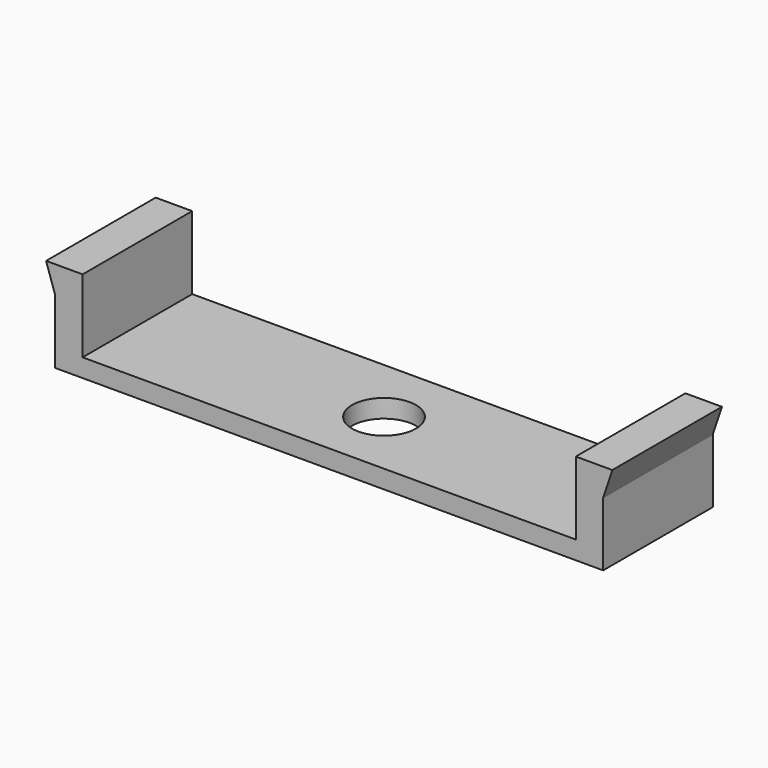
from build123d import *

# Parameters (mm, degrees)
F0_W     = 76.2
F0_H     = 19.05
F1_DEPTH = 2.54
F2_W     = 3.81
F2_H     = 19.05
F3_DEPTH = 10.16
F4_R     = 4.445
F5_DEPTH = 25.4
F7_DEPTH = 19.05


with BuildPart() as f1:
    # F0 (on Top) → F1 (new body)
    with BuildSketch(Plane.XY):
        with Locations((38.1, 9.525)):
            Rectangle(F0_W, F0_H)
    extrude(amount=F1_DEPTH)

    # F2 (on face) → F3 (join)
    with BuildSketch(Plane.XY.offset(2.54)):
        with Locations((1.905, 9.525)):
            Rectangle(F2_W, F2_H)
        with Locations((74.295, 9.525)):
            Rectangle(F2_W, F2_H)
    extrude(amount=F3_DEPTH)

    # F4 (on face) → F5 (cut)
    with BuildSketch(Plane.XY.offset(2.54)):
        with Locations((38.1, 9.525)):
            Circle(F4_R)
    extrude(amount=-F5_DEPTH, mode=Mode.SUBTRACT)

    # F6 (on face) → F7 (join, through all)
    with BuildSketch(Plane.XZ):
        Polygon((0, 8.89), (0, 12.7), (-1.27, 12.7), align=None)
        Polygon((76.2, 12.7), (76.2, 8.89), (77.47, 12.7), align=None)
    extrude(amount=-F7_DEPTH)


solid = f1.part
